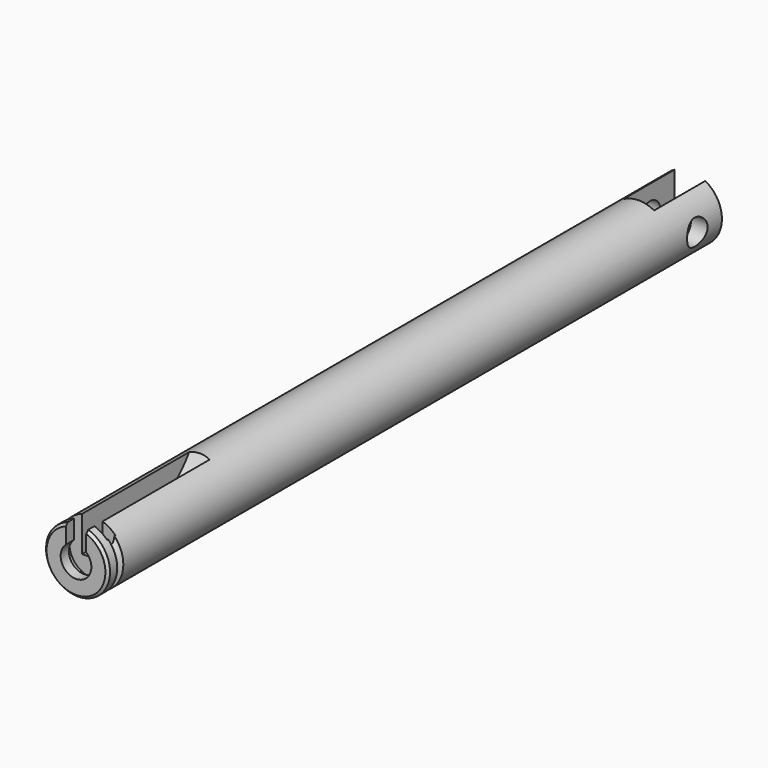
from build123d import *

# Parameters (mm, degrees)
F0_R           = 12.5
F1_DEPTH       = 300
F2_W           = 12
F2_H           = 50
F3_DEPTH       = 12.501
F3_DEPTH_BACK  = 12.501
F4_R           = 5
F5_DEPTH       = 12.501
F5_DEPTH_BACK  = 12.501
F7_DEPTH       = 4
F7_DEPTH_BACK  = 4
F10_DEPTH      = 2
F10_DEPTH_BACK = 2
F11_R          = 6
F12_DEPTH      = 8
F13_R          = 1.5
F15_SIZE       = 1
F18_R          = 1
F19_DEPTH      = 17.076317684


with BuildPart() as f1:
    # F0 (on Front) → F1 (new body)
    with BuildSketch(Plane.XZ):
        Circle(F0_R)
    extrude(amount=-F1_DEPTH)

    # F2 (on Top) → F3 (cut, two sides)
    with BuildSketch(Plane.XY) as f3_sk:
        with Locations((0, 300)):
            Rectangle(F2_W, F2_H)
    extrude(amount=-F3_DEPTH, mode=Mode.SUBTRACT)
    extrude(f3_sk.sketch, amount=F3_DEPTH_BACK, mode=Mode.SUBTRACT)

    # F4 (on Right) → F5 (cut, two sides)
    with BuildSketch(Plane.YZ) as f5_sk:
        with Locations((288, 0)):
            Circle(F4_R)
    extrude(amount=-F5_DEPTH, mode=Mode.SUBTRACT)
    extrude(f5_sk.sketch, amount=F5_DEPTH_BACK, mode=Mode.SUBTRACT)

    # F6 (on Right) → F7 (cut, two sides)
    with BuildSketch(Plane.YZ) as f7_sk:
        with BuildLine():
            Line((0, 43.2144903421), (0, -2))
            Line((0, -2), (35, -2))
            ThreePointArc((35, -2), (56.2132034356, 6.7867965644), (65, 28))
            Line((65, 28), (65, 43.2144903421))
            Line((65, 43.2144903421), (0, 43.2144903421))
        make_face()
    extrude(amount=F7_DEPTH, mode=Mode.SUBTRACT)
    extrude(f7_sk.sketch, amount=-F7_DEPTH_BACK, mode=Mode.SUBTRACT)

    # F9 (on offset) → F10 (cut, two sides)
    with BuildSketch(Plane.XZ.offset(-6)) as f10_sk:
        with BuildLine():
            Line((-9, 23.9692713934), (-9, 0))
            ThreePointArc((-9, 0), (0, -9), (9, 0))
            Line((9, 0), (9, 23.9692713934))
            Line((9, 23.9692713934), (-9, 23.9692713934))
        make_face()
    extrude(amount=-F10_DEPTH, mode=Mode.SUBTRACT)
    extrude(f10_sk.sketch, amount=F10_DEPTH_BACK, mode=Mode.SUBTRACT)

    # F11 (on Front) → F12 (cut, through all)
    with BuildSketch(Plane.XZ):
        Circle(F11_R)
    extrude(amount=-F12_DEPTH, mode=Mode.SUBTRACT)

    # F13 (on Top) → F14 (revolve, cut)
    with BuildSketch(Plane.XY):
        with Locations((12.5, 6)):
            Circle(F13_R)
    revolve(axis=Axis((0, 7.8222351149, 0), (0, 1, 0)), mode=Mode.SUBTRACT)

    # F15
    f15_edges = [f1.edges().sort_by_distance(p)[0] for p in [
        (0, 0, -12.5),
    ]]
    chamfer(f15_edges, length=F15_SIZE)

    # F18 (on line) → F19 (cut, through all)
    with BuildSketch(Plane(origin=(0, 0, 0), x_dir=(0, -1, 0), z_dir=(-0.8660254038, 0, 0.5))):
        with Locations((-6, 0)):
            Circle(F18_R)
    extrude(amount=F19_DEPTH, mode=Mode.SUBTRACT)


solid = f1.part
